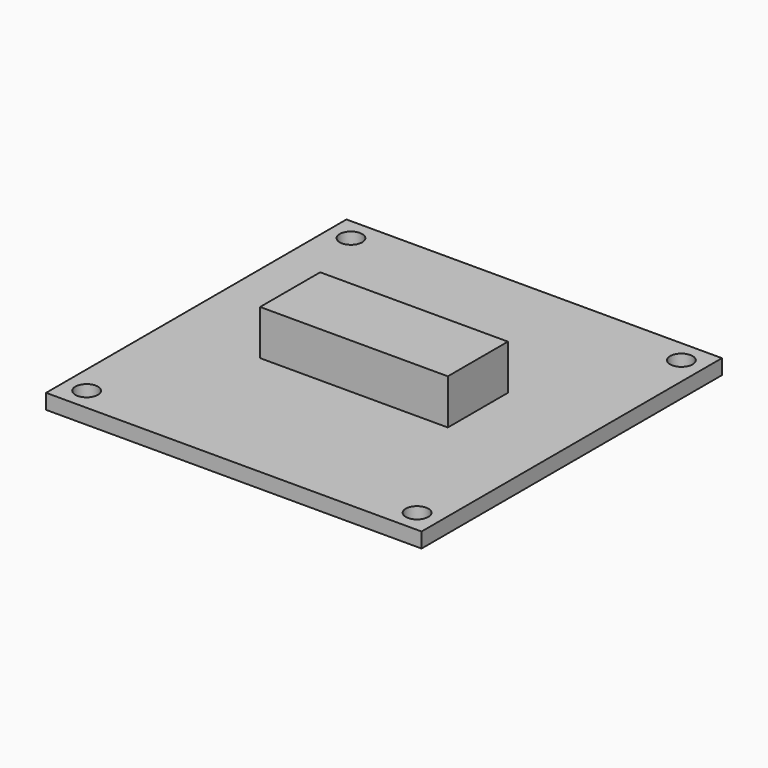
from build123d import *

# Parameters (mm, degrees)
F0_W     = 50
F0_H     = 50
F1_DEPTH = 2
F2_R     = 1.5
F3_DEPTH = 2.001
F4_W     = 25
F4_H     = 10
F5_DEPTH = 6


with BuildPart() as f1:
    # F0 (on Top) → F1 (new body)
    with BuildSketch(Plane.XY):
        Rectangle(F0_W, F0_H)
    extrude(amount=F1_DEPTH)

    # F2 (on Top) → F3 (cut, through all)
    with BuildSketch(Plane.XY):
        with Locations((-22, 22)):
            Circle(F2_R)
        with Locations((-22, -22)):
            Circle(F2_R)
        with Locations((22, -22)):
            Circle(F2_R)
        with Locations((22, 22)):
            Circle(F2_R)
    extrude(amount=F3_DEPTH, mode=Mode.SUBTRACT)

    # F4 (on face) → F5 (join)
    with BuildSketch(Plane.XY.offset(2)):
        Rectangle(F4_W, F4_H)
    extrude(amount=F5_DEPTH)


solid = f1.part
